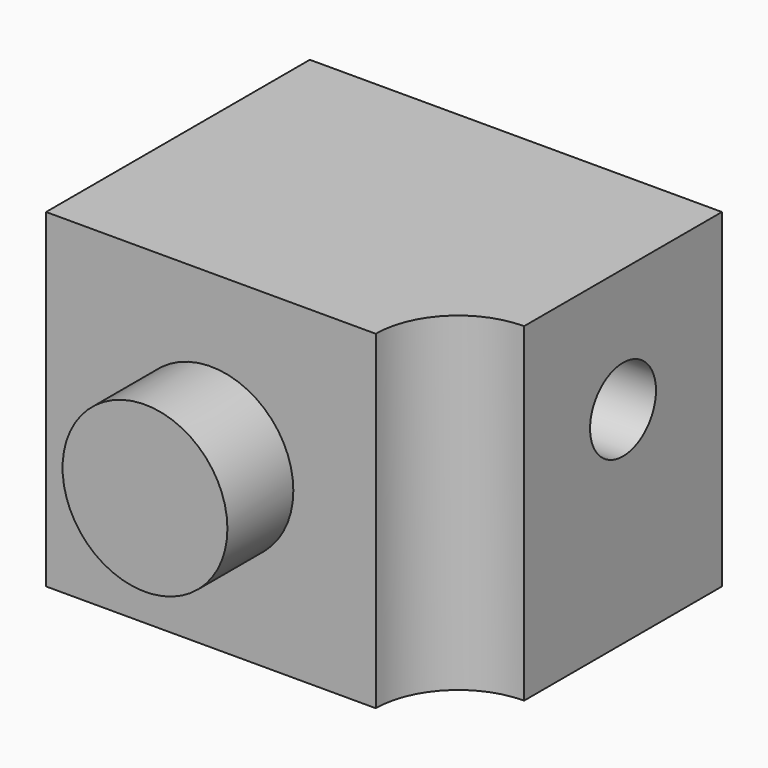
from build123d import *

# Parameters (mm, degrees)
F0_W     = 5
F0_H     = 4
F1_DEPTH = 4
F2_R     = 1
F3_DEPTH = 1
F5_DEPTH = 4
F6_R     = 0.5
F7_DEPTH = 5


with BuildPart() as f1:
    # F0 (on Top) → F1 (new body)
    with BuildSketch(Plane.XY):
        with Locations((2.5, 2)):
            Rectangle(F0_W, F0_H)
    extrude(amount=F1_DEPTH)

    # F2 (on face) → F3 (join)
    with BuildSketch(Plane.XZ):
        with Locations((2, 2)):
            Circle(F2_R)
    extrude(amount=F3_DEPTH)

    # F4 (on face) → F5 (cut)
    with BuildSketch(Plane.XY.offset(4)):
        with BuildLine():
            Line((5, 0), (5, 1))
            ThreePointArc((5, 1), (4.292893, 0.707107), (4, 0))
            Line((4, 0), (5, 0))
        make_face()
    extrude(amount=-F5_DEPTH, mode=Mode.SUBTRACT)

    # F6 (on face) → F7 (cut)
    with BuildSketch(Plane.YZ.offset(5)):
        with Locations((2.5, 2.5)):
            Circle(F6_R)
    extrude(amount=-F7_DEPTH, mode=Mode.SUBTRACT)


solid = f1.part
